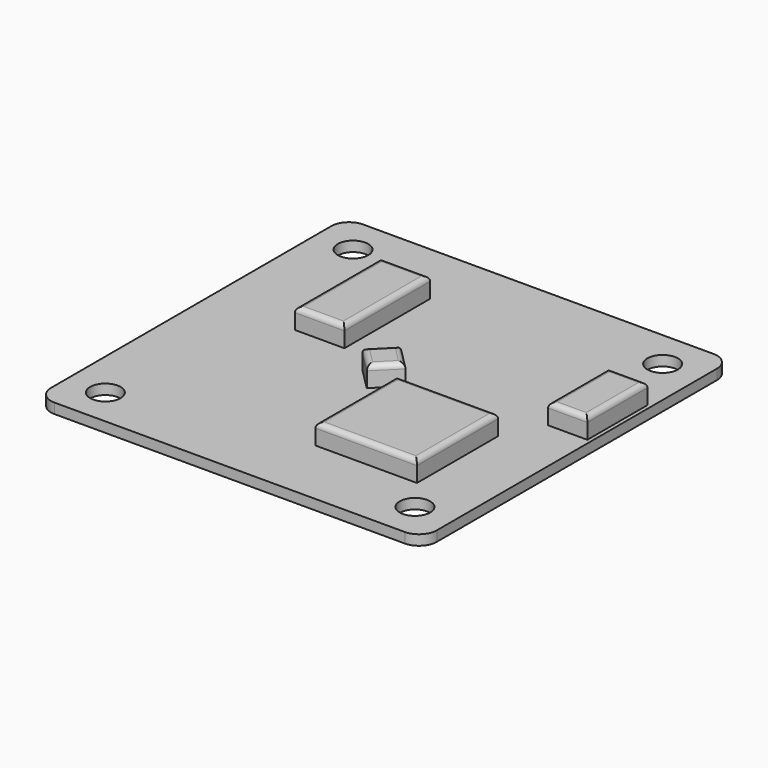
from build123d import *

# Parameters (mm, degrees)
SKETCH_R      = 1.5
PAD_DEPTH     = 1
SKETCH001_W   = 10
SKETCH001_H   = 10
SKETCH001_W_2 = 4.88679
SKETCH001_H_2 = 10.561771
SKETCH001_W_3 = 3.86214
SKETCH001_H_3 = 7.409003
PAD001_DEPTH  = 2
FILLET_R      = 0.5


with BuildPart() as part:
    # Sketch → Pad (new body)
    with BuildSketch(Plane.XY):
        with BuildLine():
            Line((-17.25, 19), (17.25, 19))
            ThreePointArc((19, 17.25), (18.487437, 18.487437), (17.25, 19))
            Line((19, 17.25), (19, -17.25))
            ThreePointArc((17.25, -19), (18.487437, -18.487437), (19, -17.25))
            Line((17.25, -19), (-17.25, -19))
            ThreePointArc((-19, -17.25), (-18.487437, -18.487437), (-17.25, -19))
            Line((-19, -17.25), (-19, 17.25))
            ThreePointArc((-17.25, 19), (-18.487437, 18.487437), (-19, 17.25))
        make_face()
        with Locations((15.25, 15.25)):
            Circle(SKETCH_R, mode=Mode.SUBTRACT)
        with Locations((-15.25, -15.25)):
            Circle(SKETCH_R, mode=Mode.SUBTRACT)
        with Locations((-15.25, 15.25)):
            Circle(SKETCH_R, mode=Mode.SUBTRACT)
        with Locations((15.25, -15.25)):
            Circle(SKETCH_R, mode=Mode.SUBTRACT)
    extrude(amount=PAD_DEPTH)

    # Sketch001 (on Face14 of Pad) → Pad001 (join)
    with BuildSketch(Plane.XY.offset(1)):
        with Locations((7.881429, -7.044085)):
            Rectangle(SKETCH001_W, SKETCH001_H)
        Polygon((0, -2.12132), (2.12132, 0), (0, 2.12132), (-2.12132, 0), align=None)
        with Locations((-7.939527, 7.278862)):
            Rectangle(SKETCH001_W_2, SKETCH001_H_2)
        with Locations((16.691468, 5.466022)):
            Rectangle(SKETCH001_W_3, SKETCH001_H_3)
    extrude(amount=PAD001_DEPTH)

    # Fillet
    fillet_edges = [part.edges().sort_by_distance(p)[0] for p in [
        (1.06066, -1.06066, 3),
        (1.06066, 1.06066, 3),
        (-1.06066, 1.06066, 3),
        (-1.06066, -1.06066, 3),
        (7.881429, -2.044085, 3),
        (12.881429, -7.044085, 3),
        (7.881429, -12.044085, 3),
        (2.881429, -7.044085, 3),
        (-7.939527, 12.559748, 3),
        (-5.496132, 7.278863, 3),
        (-7.939527, 1.997977, 3),
        (-10.382922, 7.278863, 3),
        (16.691468, 9.170523, 3),
        (18.622538, 5.466022, 3),
        (16.691468, 1.76152, 3),
        (14.760398, 5.466022, 3),
    ]]
    fillet(fillet_edges, radius=FILLET_R)


solid = part.part
